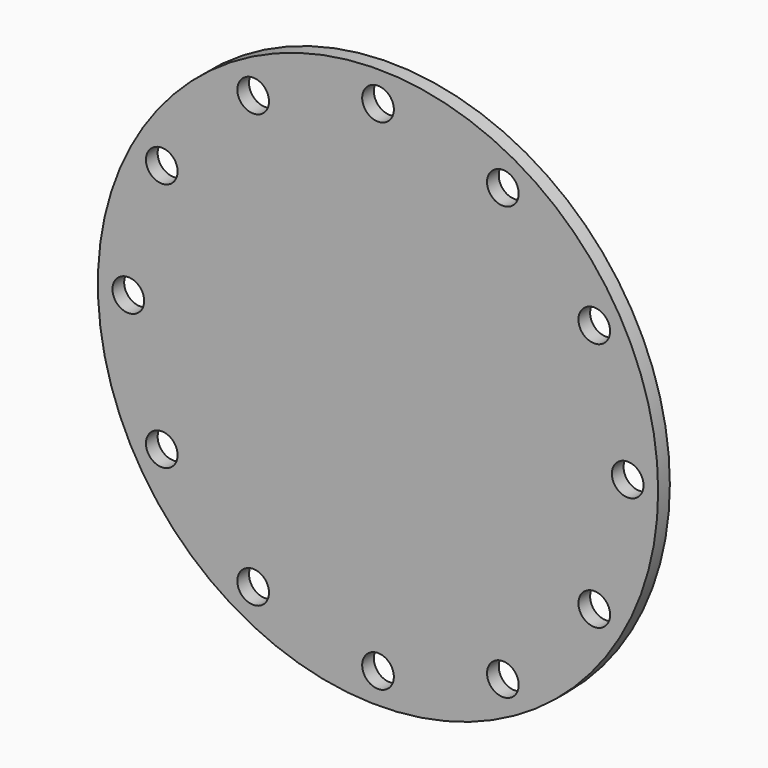
from build123d import *

# Parameters (mm, degrees)
F0_R     = 230
F0_R_2   = 13
F0_R_3   = 162
F1_DEPTH = 12


with BuildPart() as f1:
    # F0 (on Front) → F1 (new body)
    with BuildSketch(Plane.XZ):
        Circle(F0_R)
        with Locations((-102.5, -177.535208)):
            Circle(F0_R_2, mode=Mode.SUBTRACT)
        with Locations((-177.535208, -102.5)):
            Circle(F0_R_2, mode=Mode.SUBTRACT)
        with Locations((0, -205)):
            Circle(F0_R_2, mode=Mode.SUBTRACT)
        with Locations((102.5, -177.535208)):
            Circle(F0_R_2, mode=Mode.SUBTRACT)
        with Locations((177.535208, -102.5)):
            Circle(F0_R_2, mode=Mode.SUBTRACT)
        with Locations((-205, 0)):
            Circle(F0_R_2, mode=Mode.SUBTRACT)
        with Locations((-177.535208, 102.5)):
            Circle(F0_R_2, mode=Mode.SUBTRACT)
        with Locations((-102.5, 177.535208)):
            Circle(F0_R_2, mode=Mode.SUBTRACT)
        Circle(F0_R_3, mode=Mode.SUBTRACT)
        with Locations((205, 0)):
            Circle(F0_R_2, mode=Mode.SUBTRACT)
        with Locations((177.535208, 102.5)):
            Circle(F0_R_2, mode=Mode.SUBTRACT)
        with Locations((0, 205)):
            Circle(F0_R_2, mode=Mode.SUBTRACT)
        with Locations((102.5, 177.535208)):
            Circle(F0_R_2, mode=Mode.SUBTRACT)
        Circle(F0_R_3)
    extrude(amount=F1_DEPTH)


solid = f1.part
